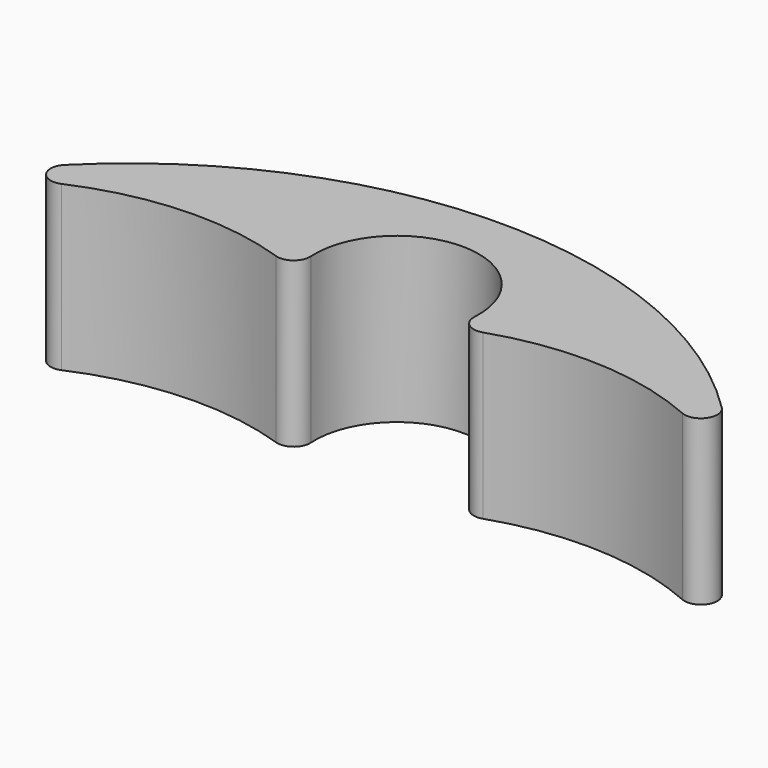
from build123d import *

# Parameters (mm, degrees)
PAD_DEPTH = 10
FILLET_R  = 1


with BuildPart() as part:
    # Sketch → Pad (new body)
    with BuildSketch(Plane.XY):
        with BuildLine():
            ThreePointArc((24.115555, 15), (0, 28.4), (-24.115555, 15))
            ThreePointArc((-4.582576, 18.4), (-14.877009, 19.733033), (-24.115555, 15))
            ThreePointArc((4.582576, 18.4), (0, 25.4), (-4.582576, 18.4))
            ThreePointArc((24.115555, 15), (14.877009, 19.733033), (4.582576, 18.4))
        make_face()
    extrude(amount=PAD_DEPTH)

    # Fillet
    fillet_edges = [part.edges().sort_by_distance(p)[0] for p in [
        (-24.115555, 15, 5),
        (-4.582576, 18.4, 5),
        (4.582576, 18.4, 5),
        (24.115555, 15, 5),
    ]]
    fillet(fillet_edges, radius=FILLET_R)


solid = part.part
